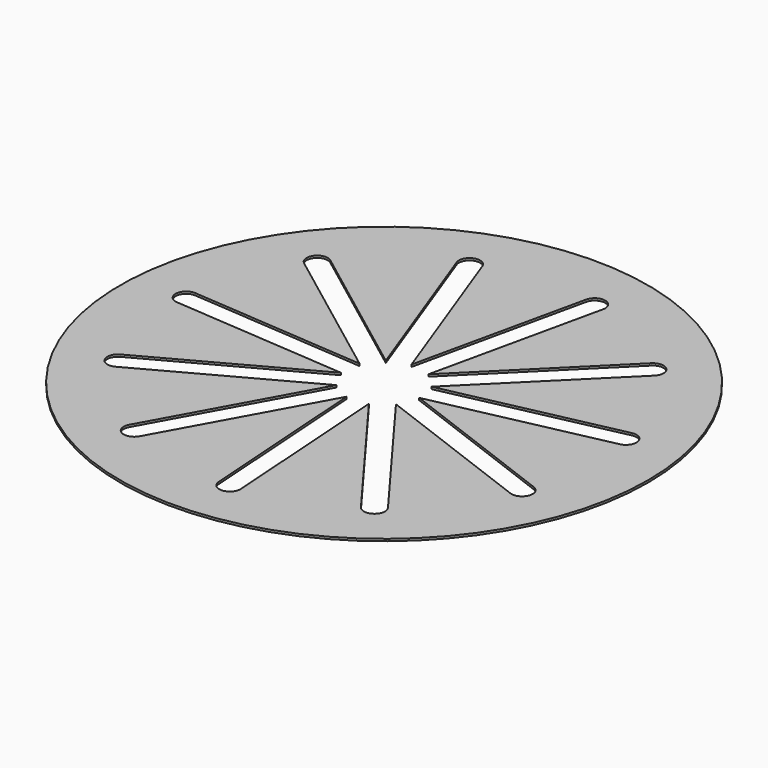
from build123d import *

# Parameters (mm, degrees)
F0_R     = 12.5
F1_DEPTH = 0.1016


with BuildPart() as f1:
    # F0 (on Top) → F1 (new body)
    with BuildSketch(Plane.XY):
        Circle(F0_R)
        with BuildLine():
            Line((2.648541, 9.655839), (0.856066, 1.554615))
            Line((0.856066, 1.554615), (6.743845, 7.400713))
            ThreePointArc((6.743845, 7.400713), (7.450947, 7.398201), (7.448436, 6.691099))
            Line((7.448436, 6.691099), (1.560657, 0.845001))
            Line((1.560657, 0.845001), (9.674411, 2.579878))
            ThreePointArc((9.674411, 2.579878), (10.267905, 2.195477), (9.883504, 1.601982))
            Line((9.883504, 1.601982), (1.76975, -0.132895))
            Line((1.76975, -0.132895), (9.53342, -3.06005))
            ThreePointArc((9.53342, -3.06005), (9.824876, -3.704296), (9.18063, -3.995752))
            Line((9.18063, -3.995752), (1.41696, -1.068598))
            Line((1.41696, -1.068598), (6.365635, -7.728434))
            ThreePointArc((6.365635, -7.728434), (6.262518, -8.427981), (5.56297, -8.324864))
            Line((5.56297, -8.324864), (0.614295, -1.665028))
            Line((0.614295, -1.665028), (1.176807, -9.943094))
            ThreePointArc((1.176807, -9.943094), (0.711855, -10.475842), (0.179107, -10.01089))
            Line((0.179107, -10.01089), (-0.383404, -1.732824))
            Line((-0.383404, -1.732824), (-4.38565, -9.000893))
            ThreePointArc((-4.38565, -9.000893), (-5.064817, -9.197697), (-5.261621, -8.518529))
            Line((-5.261621, -8.518529), (-1.259375, -1.25046))
            Line((-1.259375, -1.25046), (-8.555694, -5.200972))
            ThreePointArc((-8.555694, -5.200972), (-9.233446, -4.999348), (-9.031822, -4.321596))
            Line((-9.031822, -4.321596), (-1.735504, -0.371084))
            Line((-1.735504, -0.371084), (-10.009365, 0.250222))
            ThreePointArc((-10.009365, 0.250222), (-10.47052, 0.786259), (-9.934483, 1.247414))
            Line((-9.934483, 1.247414), (-1.660622, 0.626108))
            Line((-1.660622, 0.626108), (-8.285134, 5.621971))
            ThreePointArc((-8.285134, 5.621971), (-8.383279, 6.322234), (-7.683016, 6.420379))
            Line((-7.683016, 6.420379), (-1.058504, 1.424516))
            Line((-1.058504, 1.424516), (-3.930431, 9.208785))
            ThreePointArc((-3.930431, 9.208785), (-3.634405, 9.850944), (-2.992246, 9.554918))
            Line((-2.992246, 9.554918), (-0.120319, 1.77065))
            Line((-0.120319, 1.77065), (1.672156, 9.871874))
            ThreePointArc((1.672156, 9.871874), (2.268366, 10.252049), (2.648541, 9.655839))
        make_face(mode=Mode.SUBTRACT)
    extrude(amount=F1_DEPTH)


solid = f1.part
